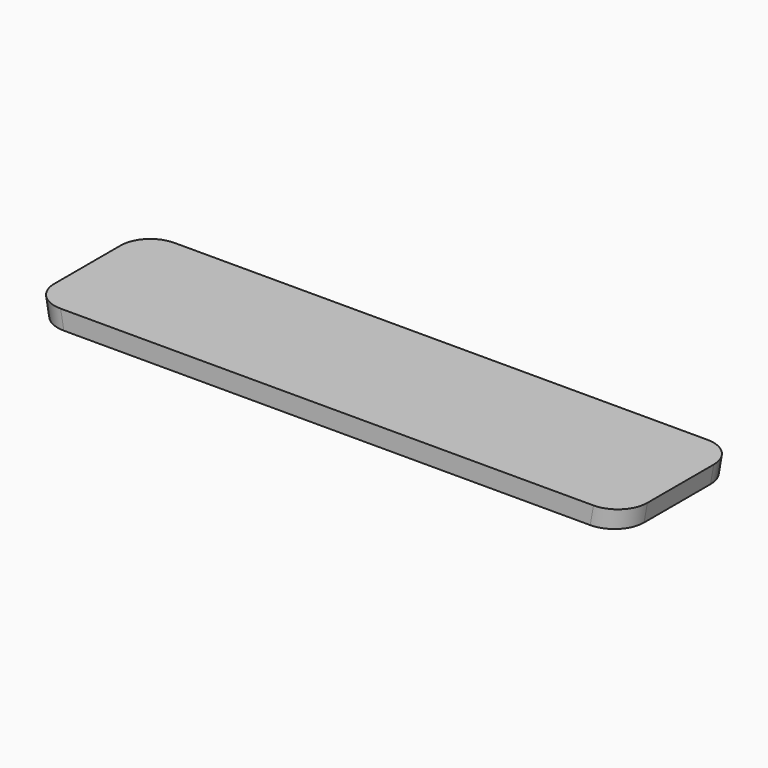
from build123d import *

# Parameters (mm, degrees)
F1_DEPTH  = 120
F3_R      = 50
F4_R      = 50
F5_R      = 50
F6_R      = 50
F10_R     = 10
F11_DEPTH = 46.7291894633


with BuildPart() as f1:
    # F0 (on Front) → F1 (new body)
    with BuildSketch(Plane.XZ):
        Polygon((500, 74.5809494637), (0, 74.5809494637), (-500, 74.5809494637), (-494.533863598, 43.5809494637), (0, 43.5809494637), (494.533863598, 43.5809494637), align=None)
    extrude(amount=F1_DEPTH)

    # F2: F1 across plane


with BuildPart() as f1_1:
    add(f1.part)
    add(f1.part.mirror(Plane.XZ))

    # F3
    f3_edges = [f1_1.edges().sort_by_distance(p)[0] for p in [
        (497.266932, -120, 59.080949),
    ]]
    fillet(f3_edges, radius=F3_R)

    # F4
    f4_edges = [f1_1.edges().sort_by_distance(p)[0] for p in [
        (497.266932, 120, 59.080949),
    ]]
    fillet(f4_edges, radius=F4_R)

    # F5
    f5_edges = [f1_1.edges().sort_by_distance(p)[0] for p in [
        (-497.266932, -120, 59.080949),
    ]]
    fillet(f5_edges, radius=F5_R)

    # F6
    f6_edges = [f1_1.edges().sort_by_distance(p)[0] for p in [
        (-497.266932, 120, 59.080949),
    ]]
    fillet(f6_edges, radius=F6_R)

    # F10 (on line) → F11 (cut, through all)
    with BuildSketch(Plane(origin=(0.4902014334, 0, 2.7800704771), x_dir=(0.984807753, 0, -0.1736481777), z_dir=(0.1736481777, 0, 0.984807753))):
        with Locations((-355.8970777407, 70)):
            Circle(F10_R)
    extrude(amount=-F11_DEPTH, mode=Mode.SUBTRACT)


solid = f1_1.part
